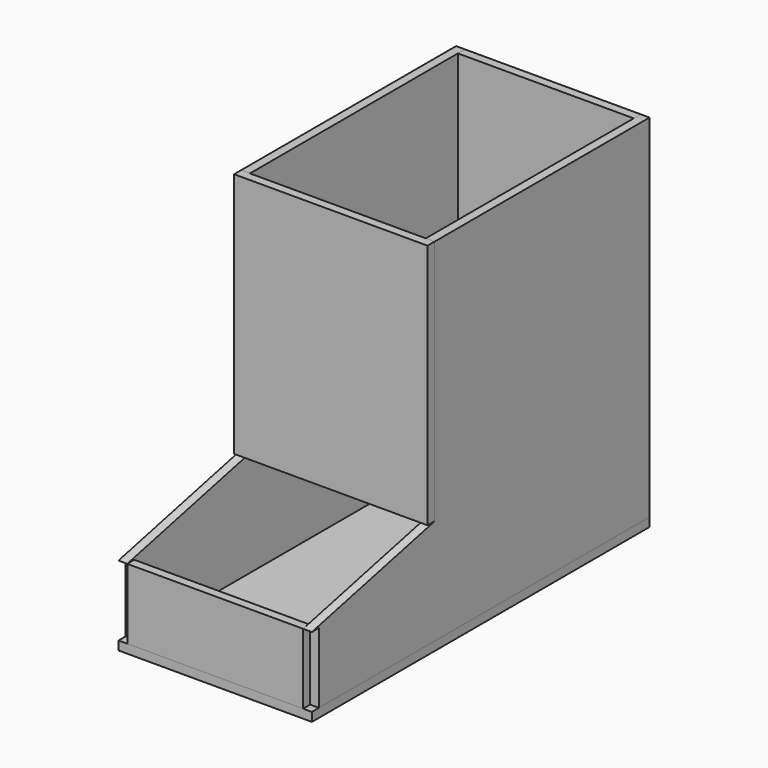
from build123d import *

# Parameters (mm, degrees)
F1_DEPTH  = 304.8
F0_W      = 127
F0_H      = 50.8
F2_DEPTH  = 6.35
F3_W      = 127
F3_H      = 254
F4_DEPTH  = 6.35
F7_DEPTH  = 6.35
F9_W      = 139.7
F9_H      = 177.8
F10_DEPTH = 6.35


with BuildPart() as f1:
    # F0 (on Front) → F1 (new body)
    with BuildSketch(Plane.XZ):
        Polygon((-69.85, -3.175), (69.85, -3.175), (69.85, 3.175), (63.5, 3.175), (-63.5, 3.175), (-69.85, 3.175), align=None)
    extrude(amount=-F1_DEPTH)

    # F3 (on face) → F4 (join)
    with BuildSketch(Plane(origin=(0, 304.8, 0), x_dir=(-1, 0, 0), z_dir=(0, 1, 0))):
        with Locations((0, 130.175)):
            Rectangle(F3_W, F3_H)
    extrude(amount=-F4_DEPTH)


with BuildPart() as f2:
    # F0 (on Front) → F2 (new body)
    with BuildSketch(Plane.XZ):
        with Locations((0, 28.575)):
            Rectangle(F0_W, F0_H)
    extrude(amount=-F2_DEPTH)


with BuildPart() as f7:
    # F6 (on offset) → F7 (new body)
    with BuildSketch(Plane.YZ.offset(63.5)):
        Polygon((6.35, 53.975), (6.35, 3.175), (298.45, 3.175), (304.8, 3.175), (304.8, 257.175), (298.45, 257.175), (110.740557, 257.175), (110.740557, 79.375), (0, 53.975), align=None)
    extrude(amount=F7_DEPTH)


with BuildPart() as f8_1:
    # F8: instance of F7
    add(f7.part.mirror(Plane.YZ))


with BuildPart() as f10:
    # F9 (on face) → F10 (new body)
    with BuildSketch(Plane.XZ.offset(-110.740557)):
        with Locations((0, 168.275)):
            Rectangle(F9_W, F9_H)
    extrude(amount=F10_DEPTH)


solid = Compound([f1.part, f2.part, f7.part, f8_1.part, f10.part])
